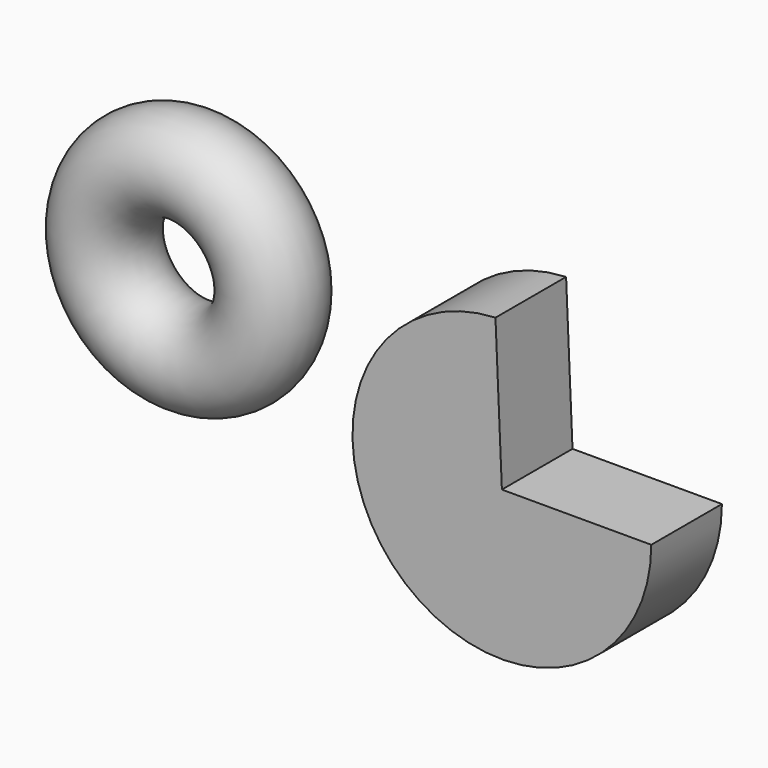
from build123d import *

# Parameters (mm, degrees)
F0_W     = 36.537992
F0_H     = 21.590633
F1_ANGLE = -267.539662
F0_R     = 11.179722


with BuildPart() as f1:
    # F0 (on Top) → F1 (revolve)
    with BuildSketch(Plane.XY):
        with Locations((41.520446, 26.365479)):
            Rectangle(F0_W, F0_H)
    revolve(axis=Axis((23.25145, 26.365479, 0), (0, -1, 0)), revolution_arc=F1_ANGLE)


with BuildPart() as f2:
    # F0 (on Top) → F2 (revolve)
    with BuildSketch(Plane.XY):
        with Locations((-62.280677, 52.52336)):
            Circle(F0_R)
    revolve(axis=Axis((-82.910329, 50.982073, 0), (0, -1, 0)))


solid = Compound([f1.part, f2.part])
